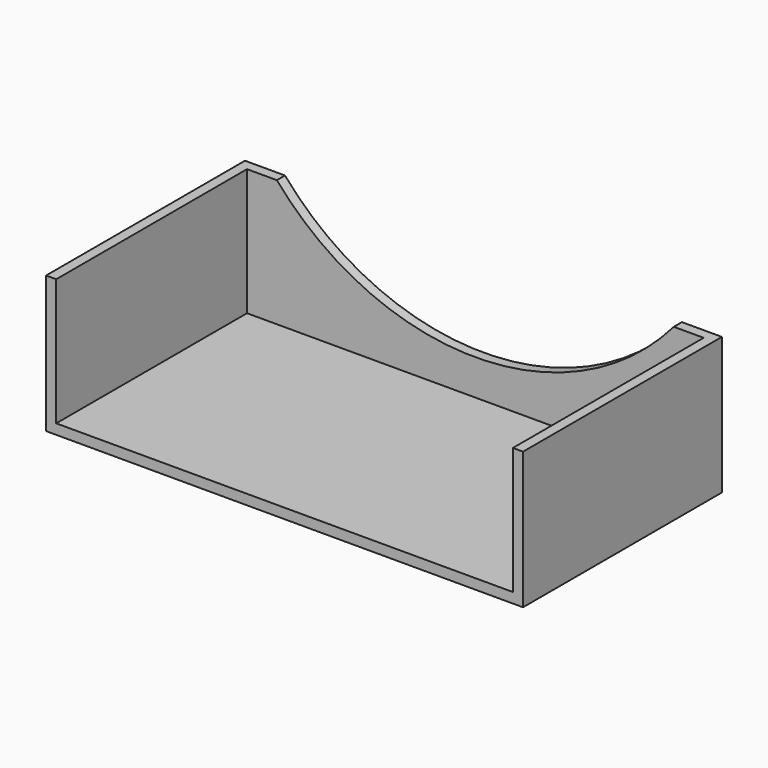
from build123d import *

# Parameters (mm, degrees)
F1_DEPTH = 2
F2_DEPTH = 27
F4_DEPTH = 25


with BuildPart() as f1:
    # F0 (on Top) → F1 (new body)
    with BuildSketch(Plane.XY):
        Polygon((-45, -24.5), (45, -24.5), (45, -22.5), (45, 22.5), (-45, 22.5), (-45, -22.5), align=None)
    extrude(amount=F1_DEPTH)

    # F0 (on Top) → F2 (join)
    with BuildSketch(Plane.XY):
        Polygon((47, -24.5), (47, 24.5), (-47, 24.5), (-47, -24.5), (-45, -24.5), (-45, -22.5), (-45, 22.5), (45, 22.5), (45, -22.5), (45, -24.5), align=None)
    extrude(amount=F2_DEPTH)

    # F3 (on face) → F4 (cut)
    with BuildSketch(Plane(origin=(0, 24.5, 0), x_dir=(-1, 0, 0), z_dir=(0, 1, 0))):
        with BuildLine():
            Line((39.115214, 27), (-39.115214, 27))
            ThreePointArc((-39.115214, 27), (0, 9), (39.115214, 27))
        make_face()
    extrude(amount=-F4_DEPTH, mode=Mode.SUBTRACT)


solid = f1.part
